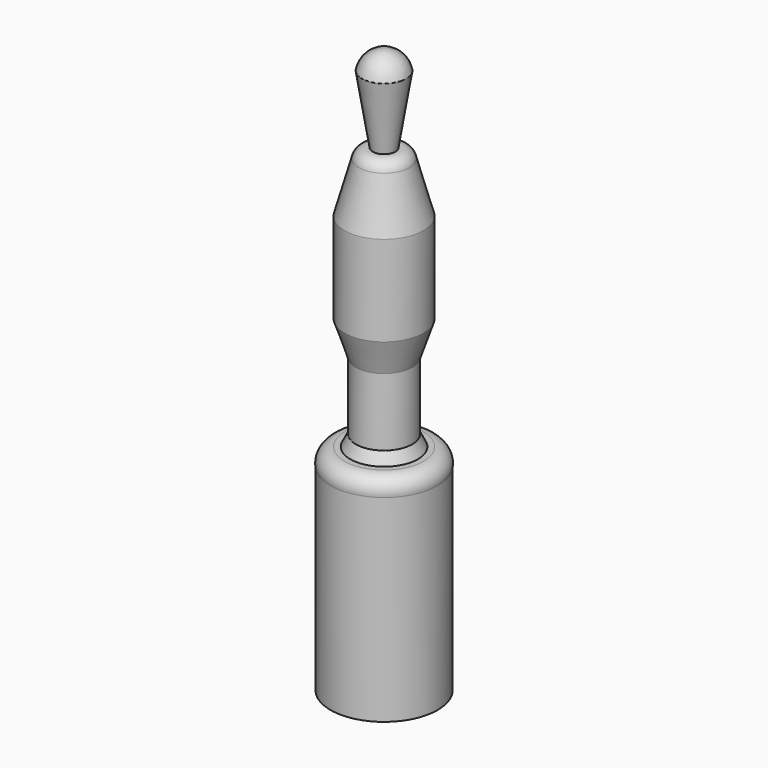
from build123d import *


with BuildPart() as f1:
    # F0 (on Front) → F1 (revolve)
    with BuildSketch(Plane.XZ):
        with BuildLine():
            Line((2, -15.327593), (3.938578, -3.301714))
            ThreePointArc((3.938578, -3.301714), (2.569714, -0.934617), (0, 0))
            Line((0, 0), (0, -100))
            Line((0, -100), (9.5, -100))
            Line((9.5, -100), (9.5, -65))
            ThreePointArc((9.5, -65), (8.952562, -62.914531), (7, -62))
            Line((7, -62), (6, -62))
            Line((6, -62), (5, -60))
            Line((5, -60), (5, -48))
            Line((5, -48), (7, -42))
            Line((7, -42), (7, -26))
            Line((7, -26), (4.5, -17))
            ThreePointArc((4.5, -17), (3.588118, -15.658361), (2, -15.327593))
        make_face()
    revolve(axis=Axis((0, 0, -50), (0, 0, 1)))


solid = f1.part
